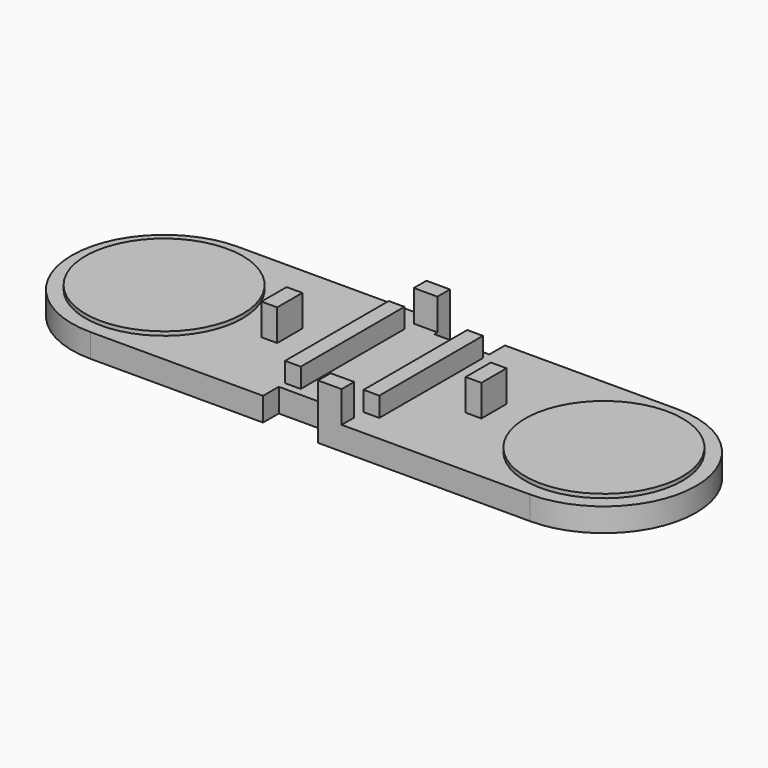
from build123d import *

# Parameters (mm, degrees)
PAD_DEPTH     = 3
SKETCH001_W   = 2
SKETCH001_H   = 16.5
PAD001_DEPTH  = 2.5
SKETCH002_W   = 2
SKETCH002_H   = 4
SKETCH002_W_2 = 3
SKETCH002_H_2 = 2
PAD002_DEPTH  = 4
SKETCH003_R   = 10
PAD003_DEPTH  = 0.5


with BuildPart() as part:
    # Sketch → Pad (new body)
    with BuildSketch(Plane.XY):
        with BuildLine():
            Line((-6, -9.25), (1, -9.25))
            Line((1, -11.75), (1, -9.25))
            Line((1, -11.75), (27.999978, -11.75))
            ThreePointArc((27.999978, -11.75), (39.749978, -1.2e-05), (28.000001, 11.75))
            Line((6, 11.75), (28.000001, 11.75))
            Line((6, 9.25), (6, 11.75))
            Line((6, 9.25), (-1, 9.25))
            Line((-1, 9.25), (-1, 11.75))
            Line((-1, 11.75), (-27.999999, 11.75))
            ThreePointArc((-27.999999, 11.75), (-39.749976, 1e-06), (-28.000001, -11.75))
            Line((-6, -11.75), (-28.000001, -11.75))
            Line((-6, -9.25), (-6, -11.75))
        make_face()
    extrude(amount=PAD_DEPTH)

    # Sketch001 (on Face14 of Pad) → Pad001 (join)
    with BuildSketch(Plane.XY.offset(3)):
        with Locations((-5, 0)):
            Rectangle(SKETCH001_W, SKETCH001_H)
        with Locations((5, 0)):
            Rectangle(SKETCH001_W, SKETCH001_H)
    extrude(amount=PAD001_DEPTH)

    # Sketch002 (on Face5 of Pad001) → Pad002 (join)
    with BuildSketch(Plane.XY.offset(3)):
        with Locations((-13, 0)):
            Rectangle(SKETCH002_W, SKETCH002_H)
        with Locations((13, 0)):
            Rectangle(SKETCH002_W, SKETCH002_H)
        with Locations((-2.5, 10.75)):
            Rectangle(SKETCH002_W_2, SKETCH002_H_2)
        with Locations((2.5, -10.75)):
            Rectangle(SKETCH002_W_2, SKETCH002_H_2)
    extrude(amount=PAD002_DEPTH)

    # Sketch003 (on Face5 of Pad002) → Pad003 (join)
    with BuildSketch(Plane.XY.offset(3)):
        with Locations((-28, 0)):
            Circle(SKETCH003_R)
        with Locations((28, 0)):
            Circle(SKETCH003_R)
    extrude(amount=PAD003_DEPTH)


solid = part.part
